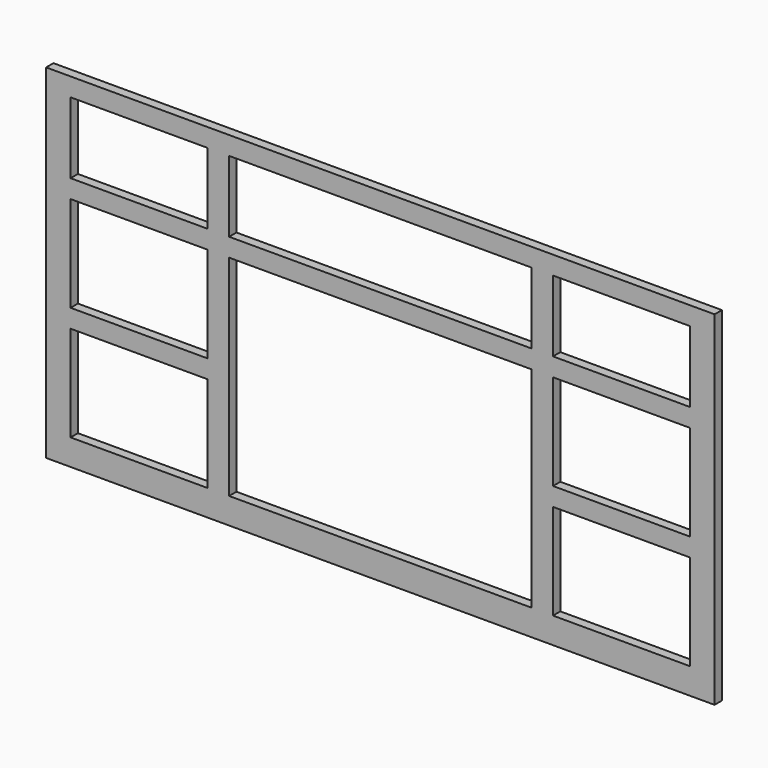
from build123d import *

# Parameters (mm, degrees)
F0_W     = 1385.8875
F0_H     = 712.7875
F0_W_2   = 284.1625
F0_H_2   = 198.4375
F0_W_3   = 627.0625
F0_H_3   = 434.975
F0_H_4   = 147.6375
F1_DEPTH = 19.05


with BuildPart() as f1:
    # F0 (on Front) → F1 (new body)
    with BuildSketch(Plane.XZ):
        Rectangle(F0_W, F0_H)
        with Locations((-500.0625, -203.2)):
            Rectangle(F0_W_2, F0_H_2, mode=Mode.SUBTRACT)
        with Locations((0, -84.93125)):
            Rectangle(F0_W_3, F0_H_3, mode=Mode.SUBTRACT)
        with Locations((500.0625, -203.2)):
            Rectangle(F0_W_2, F0_H_2, mode=Mode.SUBTRACT)
        with Locations((-500.0625, 33.3375)):
            Rectangle(F0_W_2, F0_H_2, mode=Mode.SUBTRACT)
        with Locations((-500.0625, 244.475)):
            Rectangle(F0_W_2, F0_H_4, mode=Mode.SUBTRACT)
        with Locations((0, 244.475)):
            Rectangle(F0_W_3, F0_H_4, mode=Mode.SUBTRACT)
        with Locations((500.0625, 33.3375)):
            Rectangle(F0_W_2, F0_H_2, mode=Mode.SUBTRACT)
        with Locations((500.0625, 244.475)):
            Rectangle(F0_W_2, F0_H_4, mode=Mode.SUBTRACT)
    extrude(amount=F1_DEPTH)


solid = f1.part
